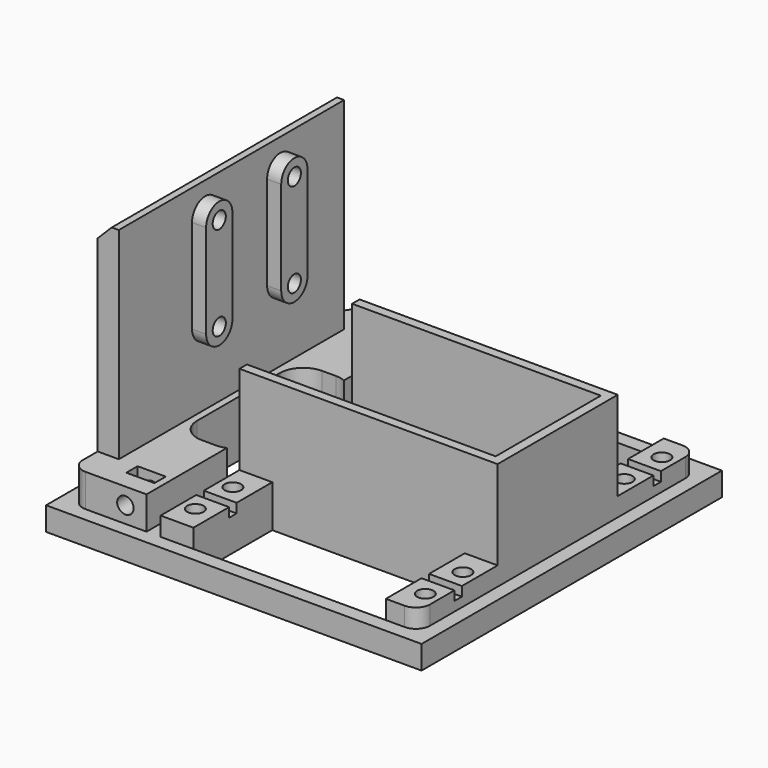
from build123d import *

# Parameters (mm, degrees)
BOX035_W                = 6
BOX035_H                = 38
BOX035_DEPTH            = 68
CYLINDER040_R           = 1.75
CYLINDER040_DEPTH       = 31
CYLINDER040_PITCH_ANGLE = 90
CYLINDER041_R           = 1.75
CYLINDER041_DEPTH       = 31
CYLINDER041_PITCH_ANGLE = 90
CYLINDER_R              = 1.75
CYLINDER_DEPTH          = 31
CYLINDER_PITCH_ANGLE    = 90
CYLINDER053_R           = 1.75
CYLINDER053_DEPTH       = 31
CYLINDER053_PITCH_ANGLE = 90
PAD_DEPTH               = 5
BOX037_W                = 61
BOX037_H                = 28
BOX037_DEPTH            = 44
BOX036_W                = 13
BOX036_H                = 32
BOX036_DEPTH            = 17
FILLET018002_R          = 5
BOX033_W                = 4.5
BOX033_H                = 60
BOX033_DEPTH            = 54
CYLINDER013_R           = 1.75
CYLINDER013_DEPTH       = 31
CYLINDER013_ROLL_ANGLE  = 90
CYLINDER012_R           = 1.75
CYLINDER012_DEPTH       = 31
CYLINDER012_ROLL_ANGLE  = 90
BOX018_W                = 6
BOX018_H                = 3
BOX018_DEPTH            = 12
BOX016_W                = 6
BOX016_H                = 3
BOX016_DEPTH            = 12
BOX017_W                = 16
BOX017_H                = 74
BOX017_DEPTH            = 12
BOX015_W                = 41
BOX015_H                = 21
BOX015_DEPTH            = 43
BOX014_W                = 41
BOX014_H                = 21
BOX014_DEPTH            = 43
CYLINDER008_R           = 1.75
CYLINDER008_DEPTH       = 21.5
CYLINDER008_PITCH_ANGLE = 90
CYLINDER009_R           = 3
CYLINDER009_DEPTH       = 21.5
CYLINDER009_PITCH_ANGLE = 90
FUSION009_PITCH_ANGLE   = 90
FUSION010_PITCH_ANGLE   = 90
FUSION008_PITCH_ANGLE   = 90
FUSION005_PITCH_ANGLE   = 90
BOX012_W                = 70
BOX012_H                = 2
BOX012_DEPTH            = 9
BOX011_W                = 7
BOX011_H                = 74
BOX011_DEPTH            = 9
BOX010_W                = 7
BOX010_H                = 74
BOX010_DEPTH            = 9
BOX009_W                = 80
BOX009_H                = 80
BOX009_DEPTH            = 5
BOX032_W                = 55
BOX032_H                = 32
BOX032_DEPTH            = 25
CHAMFER003_SIZE         = 3
FILLET018013_R          = 3


with BuildPart() as cube035:
    # Box035 → Box035 (new body)
    with BuildSketch(Plane(origin=(-23.5, 17, 68), x_dir=(1, 0, 0), z_dir=(0, 0, 1))):
        with Locations((3, 19)):
            Rectangle(BOX035_W, BOX035_H)
    extrude(amount=BOX035_DEPTH)


with BuildPart() as cylinder084:
    # Cylinder040 → Cylinder040 (new body)
    with BuildSketch(Plane.XY):
        Circle(CYLINDER040_R)
    extrude(amount=CYLINDER040_DEPTH)


with BuildPart() as cylinder084_1:
    # Cylinder040 pitch: moved
    add(cylinder084.part.rotate(Axis((0, 0, 0), (0, 1, 0)), CYLINDER040_PITCH_ANGLE))


with BuildPart() as cylinder084_2:
    # Cylinder040 placement: moved
    add(cylinder084_1.part.moved(Location((-49.5, 49, 91.5))))


with BuildPart() as cylinder085:
    # Cylinder041 → Cylinder041 (new body)
    with BuildSketch(Plane.XY):
        Circle(CYLINDER041_R)
    extrude(amount=CYLINDER041_DEPTH)


with BuildPart() as cylinder085_1:
    # Cylinder041 pitch: moved
    add(cylinder085.part.rotate(Axis((0, 0, 0), (0, 1, 0)), CYLINDER041_PITCH_ANGLE))


with BuildPart() as cylinder085_2:
    # Cylinder041 placement: moved
    add(cylinder085_1.part.moved(Location((-49.5, 49, 111.5))))


with BuildPart() as cylinder083:
    # Cylinder → Cylinder (new body)
    with BuildSketch(Plane.XY):
        Circle(CYLINDER_R)
    extrude(amount=CYLINDER_DEPTH)


with BuildPart() as cylinder083_1:
    # Cylinder pitch: moved
    add(cylinder083.part.rotate(Axis((0, 0, 0), (0, 1, 0)), CYLINDER_PITCH_ANGLE))


with BuildPart() as cylinder083_2:
    # Cylinder placement: moved
    add(cylinder083_1.part.moved(Location((-49.5, 29, 111.5))))


with BuildPart() as fusion038:
    # Cylinder053 → Cylinder053 (new body)
    with BuildSketch(Plane.XY):
        Circle(CYLINDER053_R)
    extrude(amount=CYLINDER053_DEPTH)


with BuildPart() as fusion038_1:
    # Cylinder053 pitch: moved
    add(fusion038.part.rotate(Axis((0, 0, 0), (0, 1, 0)), CYLINDER053_PITCH_ANGLE))


with BuildPart() as fusion038_2:
    # Cylinder053 placement: moved
    add(fusion038_1.part.moved(Location((-49.5, 29, 91.5))))

    # Fusion038: union Cylinder084, Cylinder085, Cylinder083
    add(cylinder084_2.part)
    add(cylinder085_2.part)
    add(cylinder083_2.part)


with BuildPart() as fusion038_3:
    # Fusion038 placement: moved
    add(fusion038_2.part.moved(Location((14, 0, 0))))


with BuildPart() as pad:
    # Sketch → Pad (new body)
    with BuildSketch(Plane(origin=(-22, 0, 0), x_dir=(0, -1, 0), z_dir=(-1, 0, 0))):
        with BuildLine():
            ThreePointArc((-45.5, 111.5), (-49, 115), (-52.5, 111.5))
            Line((-52.5, 111.5), (-52.5, 91.5))
            ThreePointArc((-52.5, 91.5), (-49, 88), (-45.5, 91.500001))
            Line((-45.5, 111.5), (-45.5, 91.500001))
        make_face()
    extrude(amount=-PAD_DEPTH)


with BuildPart() as clone_of_pad:
    # Clone base: copy of Pad
    add(pad.part)


with BuildPart() as clone_of_pad_1:
    # Clone placement: moved
    add(clone_of_pad.part.moved(Location((0, -20, 0))))


with BuildPart() as fusion039:
    # Fusion039 base: copy of Pad
    add(pad.part)

    # Fusion039: union Clone of Pad
    add(clone_of_pad_1.part)


with BuildPart() as fusion039_1:
    # Fusion039 placement: moved
    add(fusion039.part.moved(Location((4.5, 0, 0))))


with BuildPart() as cube036:
    # Box037 → Box037 (new body)
    with BuildSketch(Plane(origin=(-9, 22, 66), x_dir=(1, 0, 0), z_dir=(0, 0, 1))):
        with Locations((30.5, 14)):
            Rectangle(BOX037_W, BOX037_H)
    extrude(amount=BOX037_DEPTH)


with BuildPart() as fillet018002:
    # Box036 → Box036 (new body)
    with BuildSketch(Plane(origin=(-14, 20, 62), x_dir=(1, 0, 0), z_dir=(0, 0, 1))):
        with Locations((6.5, 16)):
            Rectangle(BOX036_W, BOX036_H)
    extrude(amount=BOX036_DEPTH)

    # Fillet018002
    fillet018002_edges = [fillet018002.edges().sort_by_distance(p)[0] for p in [
        (-14, 20, 70.5),
        (-14, 52, 70.5),
        (-1, 20, 70.5),
        (-1, 52, 70.5),
    ]]
    fillet(fillet018002_edges, radius=FILLET018002_R)


with BuildPart() as cube033:
    # Box033 → Box033 (new body)
    with BuildSketch(Plane(origin=(-20, 6, 64), x_dir=(1, 0, 0), z_dir=(0, 0, 1))):
        with Locations((2.25, 30)):
            Rectangle(BOX033_W, BOX033_H)
    extrude(amount=BOX033_DEPTH)


with BuildPart() as cylinder001:
    # Cylinder013 → Cylinder013 (new body)
    with BuildSketch(Plane.XY):
        Circle(CYLINDER013_R)
    extrude(amount=CYLINDER013_DEPTH)


with BuildPart() as cylinder001_1:
    # Cylinder013 roll: moved
    add(cylinder001.part.rotate(Axis((0, 0, 0), (1, 0, 0)), CYLINDER013_ROLL_ANGLE))


with BuildPart() as cylinder001_2:
    # Cylinder013 placement: moved
    add(cylinder001_1.part.moved(Location((-8.5, 11, 71.5))))


with BuildPart() as cylinder030:
    # Cylinder012 → Cylinder012 (new body)
    with BuildSketch(Plane.XY):
        Circle(CYLINDER012_R)
    extrude(amount=CYLINDER012_DEPTH)


with BuildPart() as cylinder030_1:
    # Cylinder012 roll: moved
    add(cylinder030.part.rotate(Axis((0, 0, 0), (1, 0, 0)), CYLINDER012_ROLL_ANGLE))


with BuildPart() as cylinder030_2:
    # Cylinder012 placement: moved
    add(cylinder030_1.part.moved(Location((-8.5, 92, 71.5))))


with BuildPart() as cube018:
    # Box018 → Box018 (new body)
    with BuildSketch(Plane(origin=(-11.5, 66, 69), x_dir=(1, 0, 0), z_dir=(0, 0, 1))):
        with Locations((3, 1.5)):
            Rectangle(BOX018_W, BOX018_H)
    extrude(amount=BOX018_DEPTH)


with BuildPart() as cube016:
    # Box016 → Box016 (new body)
    with BuildSketch(Plane(origin=(-11.5, 3, 69), x_dir=(1, 0, 0), z_dir=(0, 0, 1))):
        with Locations((3, 1.5)):
            Rectangle(BOX016_W, BOX016_H)
    extrude(amount=BOX016_DEPTH)


with BuildPart() as cube017:
    # Box017 → Box017 (new body)
    with BuildSketch(Plane(origin=(-20, -1, 63), x_dir=(1, 0, 0), z_dir=(0, 0, 1))):
        with Locations((8, 37)):
            Rectangle(BOX017_W, BOX017_H)
    extrude(amount=BOX017_DEPTH)


with BuildPart() as cube015:
    # Box015 → Box015 (new body)
    with BuildSketch(Plane(origin=(6, 52, 59), x_dir=(1, 0, 0), z_dir=(0, 0, 1))):
        with Locations((20.5, 10.5)):
            Rectangle(BOX015_W, BOX015_H)
    extrude(amount=BOX015_DEPTH)


with BuildPart() as cube014:
    # Box014 → Box014 (new body)
    with BuildSketch(Plane(origin=(6, -1, 59), x_dir=(1, 0, 0), z_dir=(0, 0, 1))):
        with Locations((20.5, 10.5)):
            Rectangle(BOX014_W, BOX014_H)
    extrude(amount=BOX014_DEPTH)


with BuildPart() as joint_d010:
    # Cylinder008 → Cylinder008 (new body)
    with BuildSketch(Plane.XY):
        Circle(CYLINDER008_R)
    extrude(amount=CYLINDER008_DEPTH)


with BuildPart() as joint_d010_1:
    # Cylinder008 pitch: moved
    add(joint_d010.part.rotate(Axis((0, 0, 0), (0, 1, 0)), CYLINDER008_PITCH_ANGLE))


with BuildPart() as joint_d010_2:
    # Cylinder008 placement: moved
    add(joint_d010_1.part.moved(Location((16, -24.5, 7))))


with BuildPart() as joint_d011:
    # Cylinder009 → Cylinder009 (new body)
    with BuildSketch(Plane.XY):
        Circle(CYLINDER009_R)
    extrude(amount=CYLINDER009_DEPTH)


with BuildPart() as joint_d011_1:
    # Cylinder009 pitch: moved
    add(joint_d011.part.rotate(Axis((0, 0, 0), (0, 1, 0)), CYLINDER009_PITCH_ANGLE))


with BuildPart() as joint_d011_2:
    # Cylinder009 placement: moved
    add(joint_d011_1.part.moved(Location((32, -24.5, 7))))


with BuildPart() as fusion009:
    # Fusion009 base: copy of Joint-D011
    add(joint_d011_2.part)

    # Fusion009: union Joint-D010
    add(joint_d010_2.part)


with BuildPart() as fusion009_1:
    # Fusion009 pitch: moved
    add(fusion009.part.rotate(Axis((0, 0, 0), (0, 1, 0)), FUSION009_PITCH_ANGLE))


with BuildPart() as fusion009_2:
    # Fusion009 placement: moved
    add(fusion009_1.part.moved(Location((-5, 39, 98))))


with BuildPart() as fusion010:
    # Fusion010 base: copy of Joint-D011
    add(joint_d011_2.part)

    # Fusion010: union Joint-D010
    add(joint_d010_2.part)


with BuildPart() as fusion010_1:
    # Fusion010 pitch: moved
    add(fusion010.part.rotate(Axis((0, 0, 0), (0, 1, 0)), FUSION010_PITCH_ANGLE))


with BuildPart() as fusion010_2:
    # Fusion010 placement: moved
    add(fusion010_1.part.moved(Location((-5, 29, 98))))


with BuildPart() as fusion008:
    # Fusion008 base: copy of Joint-D011
    add(joint_d011_2.part)

    # Fusion008: union Joint-D010
    add(joint_d010_2.part)


with BuildPart() as fusion008_1:
    # Fusion008 pitch: moved
    add(fusion008.part.rotate(Axis((0, 0, 0), (0, 1, 0)), FUSION008_PITCH_ANGLE))


with BuildPart() as fusion008_2:
    # Fusion008 placement: moved
    add(fusion008_1.part.moved(Location((44, 29, 98))))


with BuildPart() as fusion005:
    # Fusion005 base: copy of Joint-D011
    add(joint_d011_2.part)

    # Fusion005: union Joint-D010
    add(joint_d010_2.part)


with BuildPart() as fusion005_1:
    # Fusion005 pitch: moved
    add(fusion005.part.rotate(Axis((0, 0, 0), (0, 1, 0)), FUSION005_PITCH_ANGLE))


with BuildPart() as fusion005_2:
    # Fusion005 placement: moved
    add(fusion005_1.part.moved(Location((44, 39, 98))))


with BuildPart() as cube012:
    # Box012 → Box012 (new body)
    with BuildSketch(Plane(origin=(-6, 8.5, 70), x_dir=(1, 0, 0), z_dir=(0, 0, 1))):
        with Locations((35, 1)):
            Rectangle(BOX012_W, BOX012_H)
    extrude(amount=BOX012_DEPTH)


with BuildPart() as fusion011:
    # Fusion011 base: copy of Cube012
    add(cube012.part)

    # Fusion011: union Fusion009, Fusion010, Fusion008, Fusion005
    add(fusion009_2.part)
    add(fusion010_2.part)
    add(fusion008_2.part)
    add(fusion005_2.part)


with BuildPart() as fusion012:
    # Fusion012 base: copy of Cube012
    add(cube012.part)

    # Fusion012: union Fusion009, Fusion010, Fusion008, Fusion005
    add(fusion009_2.part)
    add(fusion010_2.part)
    add(fusion008_2.part)
    add(fusion005_2.part)


with BuildPart() as fusion012_1:
    # Fusion012 placement: moved
    add(fusion012.part.moved(Location((0, 53, 0))))


with BuildPart() as cube011:
    # Box011 → Box011 (new body)
    with BuildSketch(Plane(origin=(47, -1, 63), x_dir=(1, 0, 0), z_dir=(0, 0, 1))):
        with Locations((3.5, 37)):
            Rectangle(BOX011_W, BOX011_H)
    extrude(amount=BOX011_DEPTH)


with BuildPart() as cube010:
    # Box010 → Box010 (new body)
    with BuildSketch(Plane(origin=(-1, -1, 63), x_dir=(1, 0, 0), z_dir=(0, 0, 1))):
        with Locations((3.5, 37)):
            Rectangle(BOX010_W, BOX010_H)
    extrude(amount=BOX010_DEPTH)


with BuildPart() as cut050:
    # Box009 → Box009 (new body)
    with BuildSketch(Plane(origin=(-23, -4, 63), x_dir=(1, 0, 0), z_dir=(0, 0, 1))):
        with Locations((40, 40)):
            Rectangle(BOX009_W, BOX009_H)
    extrude(amount=BOX009_DEPTH)

    # Fusion013: union Cube011, Cube010
    add(cube011.part)
    add(cube010.part)

    # Cut018: cut Fusion012
    add(fusion012_1.part, mode=Mode.SUBTRACT)

    # Cut019: cut Fusion011
    add(fusion011.part, mode=Mode.SUBTRACT)

    # Cut020: cut Cube014
    add(cube014.part, mode=Mode.SUBTRACT)

    # Cut021: cut Cube015
    add(cube015.part, mode=Mode.SUBTRACT)

    # Fusion014: union Cube017
    add(cube017.part)

    # Cut022: cut Cube016
    add(cube016.part, mode=Mode.SUBTRACT)

    # Cut023: cut Cube018
    add(cube018.part, mode=Mode.SUBTRACT)

    # Cut024: cut Cylinder030
    add(cylinder030_2.part, mode=Mode.SUBTRACT)

    # Cut050: cut Cylinder001
    add(cylinder001_2.part, mode=Mode.SUBTRACT)


with BuildPart() as obj1:
    # Box032 → Box032 (new body)
    with BuildSketch(Plane(origin=(-1, 20, 66), x_dir=(1, 0, 0), z_dir=(0, 0, 1))):
        with Locations((27.5, 16)):
            Rectangle(BOX032_W, BOX032_H)
    extrude(amount=BOX032_DEPTH)

    # Fusion025: union Cut050
    add(cut050.part)

    # Fusion026: union Cube033
    add(cube033.part)

    # Cut051: cut Fillet018002
    add(fillet018002.part, mode=Mode.SUBTRACT)

    # Cut066: cut Cube036
    add(cube036.part, mode=Mode.SUBTRACT)

    # Chamfer003
    chamfer003_edges = [obj1.edges().sort_by_distance(p)[0] for p in [
        (-20, 36, 118),
    ]]
    chamfer(chamfer003_edges, length=CHAMFER003_SIZE)

    # Fusion040: union Fusion039
    add(fusion039_1.part)

    # Cut067: cut Fusion038
    add(fusion038_3.part, mode=Mode.SUBTRACT)

    # Cut068: cut Cube035
    add(cube035.part, mode=Mode.SUBTRACT)

    # Fillet018013
    fillet018013_edges = [obj1.edges().sort_by_distance(p)[0] for p in [
        (-20, -1, 71.5),
        (-20, 73, 71.5),
        (54, -1, 70),
        (54, 73, 70),
    ]]
    fillet(fillet018013_edges, radius=FILLET018013_R)


solid = obj1.part
